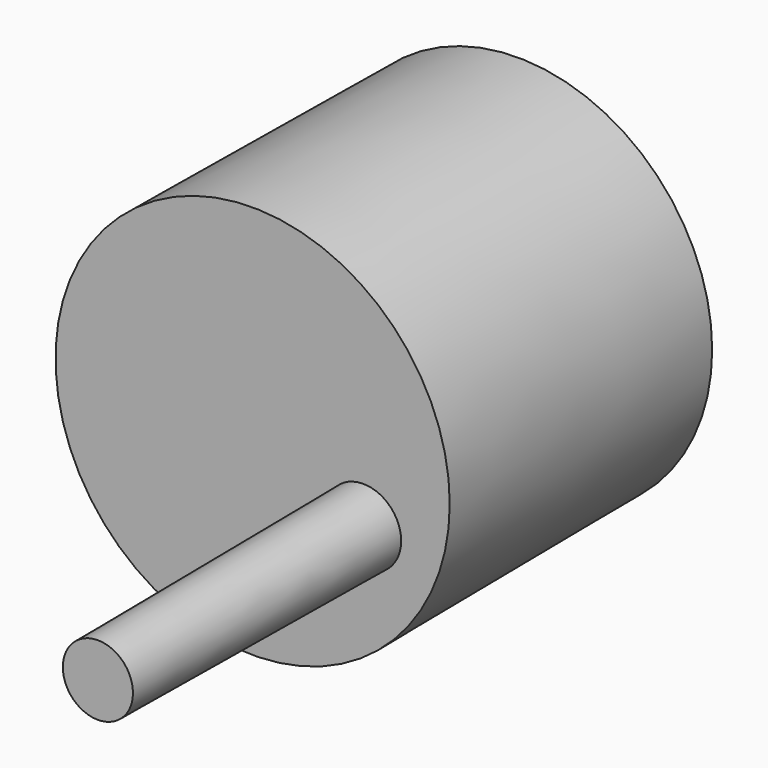
from build123d import *

# Parameters (mm, degrees)
F0_R     = 29.7482255496
F1_DEPTH = 50.8
F1_TAPER = -0.5
F2_R     = 5.814909616
F3_DEPTH = 50.8
F3_TAPER = 0.5


with BuildPart() as f1:
    # F0 (on Front) → F1 (new body)
    with BuildSketch(Plane.XZ):
        Circle(F0_R)
    extrude(amount=F1_DEPTH, taper=F1_TAPER)

    # F2 (on face) → F3 (join)
    with BuildSketch(Plane.XZ.offset(50.8)):
        with Locations((16.9361867011, -7.3966495693)):
            Circle(F2_R)
    extrude(amount=F3_DEPTH, taper=F3_TAPER)


solid = f1.part
